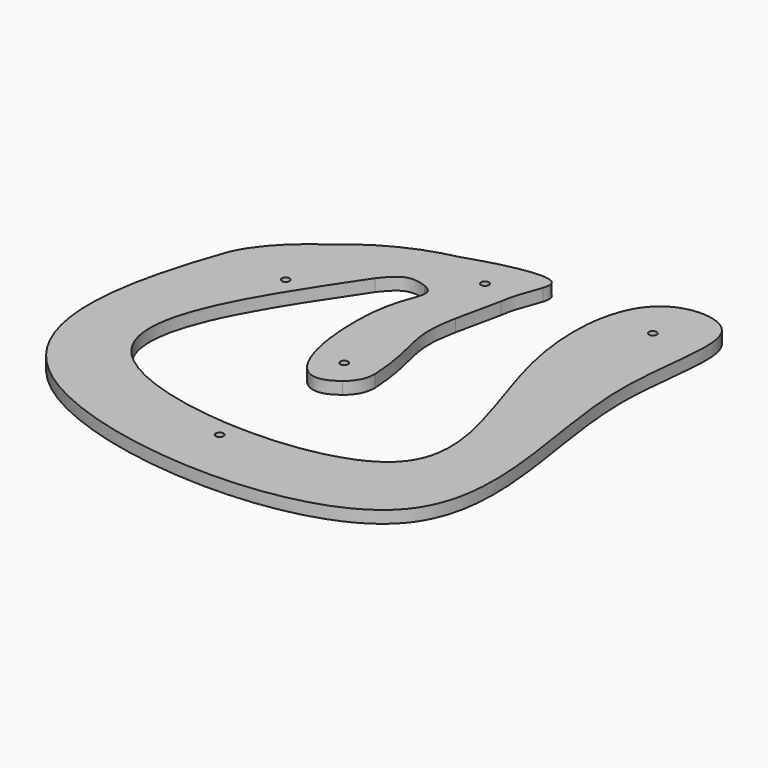
from build123d import *

# Parameters (mm, degrees)
F0_W     = 200
F0_H     = 200
F1_DEPTH = 5
F2_R     = 1.5875
F3_DEPTH = 5.001
F4_W     = 200
F4_H     = 200
F5_DEPTH = 5.001


with BuildPart() as f1:
    # F0 (on Top) → F1 (new body)
    with BuildSketch(Plane.XY):
        Rectangle(F0_W, F0_H)
    extrude(amount=F1_DEPTH)

    # F2 (on face) → F3 (cut, through all)
    with BuildSketch(Plane.XY.offset(5)):
        Circle(F2_R)
        with Locations((0, -63.662)):
            Circle(F2_R)
        with Locations((64.1583176089, 77.5462182691)):
            Circle(F2_R)
        with Locations((-50.5153796805, 33.2551628583)):
            Circle(F2_R)
        with Locations((0.8476075271, 70.8675782169)):
            Circle(F2_R)
    extrude(amount=-F3_DEPTH, mode=Mode.SUBTRACT)

    # F4 (on face) → F5 (cut, through all)
    with BuildSketch(Plane.XY.offset(5)):
        Rectangle(F4_W, F4_H)
        with BuildLine():
            ThreePointArc((17.1326590626, 80.1902238022), (31.0422614354, 75.8971541296), (43.9735640518, 69.2121785857))
            add(Edge.make_bspline(
                [(-76.7665058374, 36.966599524), (-91.817047856, -4.7803792813), (-103.2571823893, -87.2878823857), (120.3171441829, -99.9919617242), (68.637917418, 34.5660997036), (92.709894501, 98.4636787333), (52.8479045734, 100.1452424481), (44.9337900878, 80.4346559112), (43.9735640518, 69.2121785857)],
                knots=[0, 0, 0, 0, 0.1235555538, 0.2705374594, 0.396420246, 0.488243568, 0.5492038003, 0.5995181391, 0.5995181391, 0.5995181391, 0.5995181391], degree=3))
            add(Edge.make_bspline(
                [(-54.088168637, 61.631728951), (-64.3873416214, 54.4917179785), (-72.8369907543, 46.128314622), (-76.7665058374, 36.966599524)],
                knots=[0.8019392559, 0.8019392559, 0.8019392559, 0.8019392559, 1, 1, 1, 1], degree=3))
            ThreePointArc((-54.088168637, 61.631728951), (-36.5726066275, 73.3924004545), (-16.6360495244, 80.2947187318))
            add(Edge.make_bspline(
                [(-12.5, 81.6860883728), (-13.857544387, 81.2496689605), (-15.237998283, 80.7855972347), (-16.6360495244, 80.2947187318)],
                knots=[0.5573500458, 0.5573500458, 0.5573500458, 0.5573500458, 0.5822588029, 0.5822588029, 0.5822588029, 0.5822588029], degree=3))
            Line((-12.5, 81.6860883728), (-12.5, 82))
            ThreePointArc((-12.5, 82), (-2.283760771, 94.2896068587), (11.6655098785, 86.4906435257))
            add(Edge.make_bspline(
                [(17.1326590626, 80.1902238022), (17.8880340297, 82.8291936824), (17.8561307084, 85.6730147962), (13.4917724717, 86.447139991), (11.6655098785, 86.4906435257)],
                knots=[0.1847964872, 0.1847964872, 0.1847964872, 0.1847964872, 0.3114102425, 0.3736604526, 0.3736604526, 0.3736604526, 0.3736604526], degree=3))
        make_face(mode=Mode.SUBTRACT)
        with BuildLine():
            add(Edge.make_bspline(
                [(43.9735640518, 69.2121785857), (43.1621830612, 59.7293022328), (46.9526163505, 19.8489628575), (95.0997223941, -65.807782974), (-101.2237345857, -56.5962072954), (-51.9783670927, 17.6219545236), (-28.8662631065, 51.9419983029)],
                knots=[0.5995181391, 0.5995181391, 0.5995181391, 0.5995181391, 0.6420332308, 0.7518244571, 0.8814527359, 1, 1, 1, 1], degree=3))
            ThreePointArc((43.9735640518, 69.2121785857), (31.0422614354, 75.8971541296), (17.1326590626, 80.1902238022))
            add(Edge.make_bspline(
                [(12.5, 64.5688953585), (13.2729949877, 70.9265640556), (16.0301671563, 76.3385699075), (17.1326590626, 80.1902238022)],
                knots=[0, 0, 0, 0, 0.1847964872, 0.1847964872, 0.1847964872, 0.1847964872], degree=3))
            Line((12.5, 64.5688953585), (12.5, 45.3072841826))
            ThreePointArc((12.5, 45.3072841826), (37.3931811966, 28.4736720498), (47, 0))
            ThreePointArc((47, 0), (-28.4736720498, -37.3931811966), (-12.5, 45.3072841826))
            Line((-12.5, 45.3072841826), (-12.5, 57.3815318916))
            add(Edge.make_bspline(
                [(-13.5011989624, 57.8377755841), (-13.1370093929, 57.6884442546), (-12.8039078539, 57.5366460544), (-12.5, 57.3815318916)],
                knots=[0, 0, 0, 0, 0.0184408503, 0.0184408503, 0.0184408503, 0.0184408503], degree=3))
            add(Edge.make_bspline(
                [(-28.8662631065, 51.9419983029), (-23.6106999218, 58.5696771741), (-20.7033194602, 60.3096596897), (-13.5011989624, 57.8377755841)],
                knots=[0, 0, 0, 0, 16.4573808944, 16.4573808944, 16.4573808944, 16.4573808944], degree=3))
        make_face()
        with BuildLine():
            ThreePointArc((47, 0), (37.3931811966, 28.4736720498), (12.5, 45.3072841826))
            Line((12.5, 45.3072841826), (12.5, 0))
            ThreePointArc((12.5, 0), (11.1493754852, -5.6516746447), (7.3893717936, -10.0820228375))
            add(Edge.make_bspline(
                [(-6.6604031037, -10.5777611287), (-3.1783635622, -14.2080769819), (1.4557627121, -14.763116514), (7.3893717936, -10.0820228375)],
                knots=[0.815260488, 0.815260488, 0.815260488, 0.815260488, 1, 1, 1, 1], degree=3))
            ThreePointArc((-6.6604031037, -10.5777611287), (-10.9431494277, -6.0413144763), (-12.5, 0))
            Line((-12.5, 0), (-12.5, 1.4426485112))
            add(Edge.make_bspline(
                [(-12.5, 44.1532415898), (-13.0559576451, 42.3483169271), (-15.9182734162, 31.5744849632), (-15.5484307025, 12.7463633664), (-12.5, 1.4426485112)],
                knots=[0.3103711041, 0.3103711041, 0.3103711041, 0.3103711041, 0.3807558286, 0.6804520435, 0.6804520435, 0.6804520435, 0.6804520435], degree=3))
            Line((-12.5, 44.1532415898), (-12.5, 45.3072841826))
            ThreePointArc((-12.5, 45.3072841826), (-28.4736720498, -37.3931811966), (47, 0))
        make_face()
        with BuildLine():
            Line((12.5, 0), (12.5, 45.3072841826))
            ThreePointArc((12.5, 45.3072841826), (10.5405620251, 45.8028007025), (8.5616321995, 46.213617626))
            add(Edge.make_bspline(
                [(12.5, 0), (11.5791953111, 16.6191422507), (5.9472612592, 27.3537009302), (7.4832360771, 40.5249124034), (8.5616321995, 46.213617626)],
                knots=[0, 0, 0, 0, 0.4947837305, 0.7616918871, 0.7616918871, 0.7616918871, 0.7616918871], degree=3))
        make_face()
        with BuildLine():
            ThreePointArc((-12.5, 0), (-10.9431494277, -6.0413144763), (-6.6604031037, -10.5777611287))
            add(Edge.make_bspline(
                [(-12.5, 1.4426485112), (-11.1287641269, -3.6419542966), (-9.2013231754, -7.9286406038), (-6.6604031037, -10.5777611287)],
                knots=[0.6804520435, 0.6804520435, 0.6804520435, 0.6804520435, 0.815260488, 0.815260488, 0.815260488, 0.815260488], degree=3))
            Line((-12.5, 1.4426485112), (-12.5, 0))
        make_face()
        with BuildLine():
            add(Edge.make_bspline(
                [(11.6655098785, 86.4906435257), (6.2765251305, 86.6190149251), (-2.4887908972, 84.9044626929), (-12.5, 81.6860883728)],
                knots=[0.3736604526, 0.3736604526, 0.3736604526, 0.3736604526, 0.5573500458, 0.5573500458, 0.5573500458, 0.5573500458], degree=3))
            ThreePointArc((11.6655098785, 86.4906435257), (-2.283760771, 94.2896068587), (-12.5, 82))
            Line((-12.5, 82), (-12.5, 81.6860883728))
        make_face()
        with BuildLine():
            Line((12.5, 45.3072841826), (12.5, 64.5688953585))
            add(Edge.make_bspline(
                [(8.5616321995, 46.213617626), (9.5244748048, 51.2927602926), (10.9179259031, 57.2275250058), (12.5, 64.5688953585)],
                knots=[0.7616918871, 0.7616918871, 0.7616918871, 0.7616918871, 1, 1, 1, 1], degree=3))
            ThreePointArc((8.5616321995, 46.213617626), (10.5405620251, 45.8028007025), (12.5, 45.3072841826))
        make_face()
        with BuildLine():
            add(Edge.make_bspline(
                [(-12.5, 57.3815318916), (-7.9685172108, 55.0686691279), (-9.9276478243, 52.0185705278), (-12.097468025, 45.41642068)],
                knots=[0.0184408503, 0.0184408503, 0.0184408503, 0.0184408503, 0.2934070764, 0.2934070764, 0.2934070764, 0.2934070764], degree=3))
            Line((-12.5, 57.3815318916), (-12.5, 45.3072841826))
            ThreePointArc((-12.5, 45.3072841826), (-12.2988550688, 45.3622989276), (-12.097468025, 45.41642068))
        make_face()
        with BuildLine():
            ThreePointArc((-12.097468025, 45.41642068), (-12.2988550688, 45.3622989276), (-12.5, 45.3072841826))
            Line((-12.5, 45.3072841826), (-12.5, 44.1532415898))
            add(Edge.make_bspline(
                [(-12.097468025, 45.41642068), (-12.2313349754, 45.0091013705), (-12.3660038665, 44.5882620057), (-12.5, 44.1532415898)],
                knots=[0.2934070764, 0.2934070764, 0.2934070764, 0.2934070764, 0.3103711041, 0.3103711041, 0.3103711041, 0.3103711041], degree=3))
        make_face()
    extrude(amount=-F5_DEPTH, mode=Mode.SUBTRACT)


solid = f1.part
